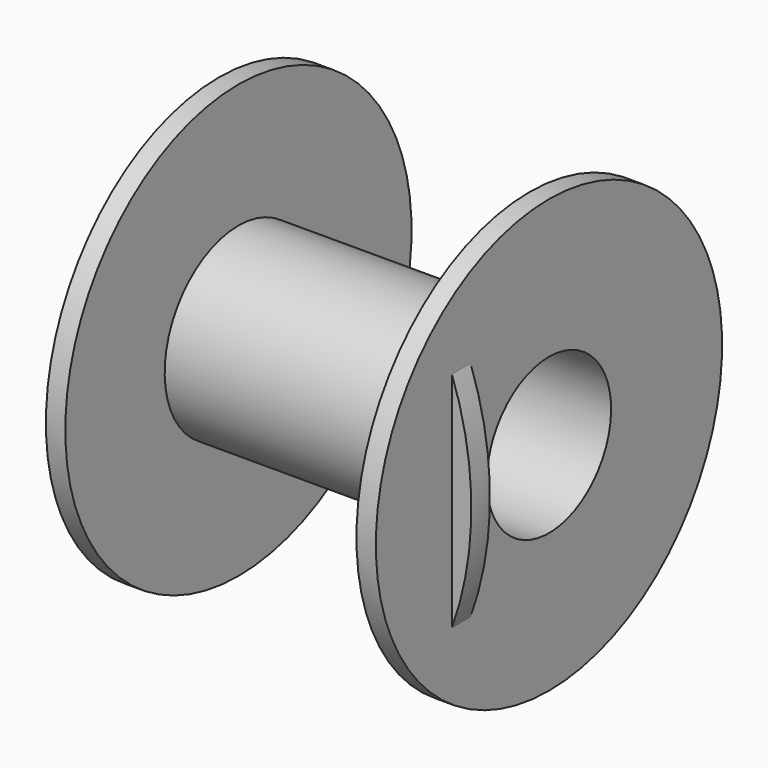
from build123d import *

# Parameters (mm, degrees)
F3_START = 5.05
F3_DEPTH = 1.2


with BuildPart() as f1:
    # F0 (on Front) → F1 (revolve)
    with BuildSketch(Plane.XZ):
        Polygon((0, 11.15), (0, 4), (17, 4), (17, 11.15), (16, 11.15), (16, 4.75), (1, 4.75), (1, 11.15), align=None)
    revolve(axis=Axis((9.8618045449, 0, 0), (-1, 0, 0)))

    # F2 (on Front) → F3 (join)
    with BuildSketch(Plane.XZ.offset(F3_START)):
        with BuildLine():
            Line((17, 5.75), (17, -5.75))
            ThreePointArc((17, -5.75), (18, 0), (17, 5.75))
        make_face()
    extrude(amount=F3_DEPTH)


solid = f1.part
